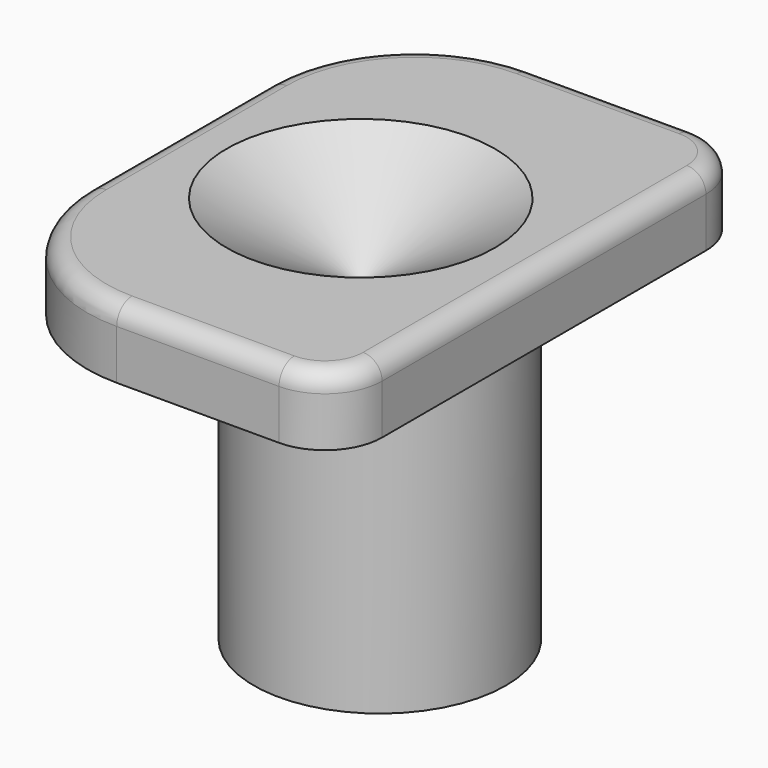
from build123d import *

# Parameters (mm, degrees)
PAD027_DEPTH    = 1.8
SKETCH062_R     = 3.3
PAD028_DEPTH    = 8.2
FILLET_R        = 0.5
SKETCH101_R     = 0.05
POCKET045_DEPTH = 4
POCKET045_TAPER = -60


with BuildPart() as part:
    # Sketch061 → Pad027 (new body)
    with BuildSketch(Plane.XY):
        with BuildLine():
            Line((-12.88, -25.84), (-12.88, -31.74))
            ThreePointArc((-12.88, -31.74), (-11.752361, -34.462361), (-9.03, -35.59))
            Line((-9.03, -35.59), (-4.78, -35.59))
            ThreePointArc((-4.78, -35.59), (-3.71934, -35.15066), (-3.28, -34.09))
            Line((-3.28, -34.09), (-3.28, -23.49))
            ThreePointArc((-3.28, -23.49), (-3.71934, -22.42934), (-4.78, -21.99))
            Line((-4.78, -21.99), (-9.03, -21.99))
            ThreePointArc((-9.03, -21.99), (-11.752361, -23.117639), (-12.88, -25.84))
        make_face()
    extrude(amount=-PAD027_DEPTH)

    # Sketch062 → Pad028 (join)
    with BuildSketch(Plane.XY.offset(-1.8)):
        with Locations((-7.58, -28.79)):
            Circle(SKETCH062_R)
    extrude(amount=-PAD028_DEPTH)

    # Fillet
    fillet_edges = [part.edges().sort_by_distance(p)[0] for p in [
        (-12.88, -28.79, 0),
        (-11.752361, -34.462361, 0),
        (-6.905, -35.59, 0),
        (-3.71934, -35.15066, 0),
        (-3.28, -28.79, 0),
        (-3.71934, -22.42934, 0),
        (-6.905, -21.99, 0),
        (-11.752361, -23.117639, 0),
    ]]
    fillet(fillet_edges, radius=FILLET_R)

    # Sketch101 → Pocket045 (cut)
    with BuildSketch(Plane.XY.offset(-2)):
        with Locations((-8.08, -28.79)):
            Circle(SKETCH101_R)
    extrude(amount=POCKET045_DEPTH, taper=POCKET045_TAPER, mode=Mode.SUBTRACT)


with BuildPart() as part_1:
    # Body008 placement: moved
    add(part.part.moved(Location((0, 0, 26.4))))


solid = part_1.part
